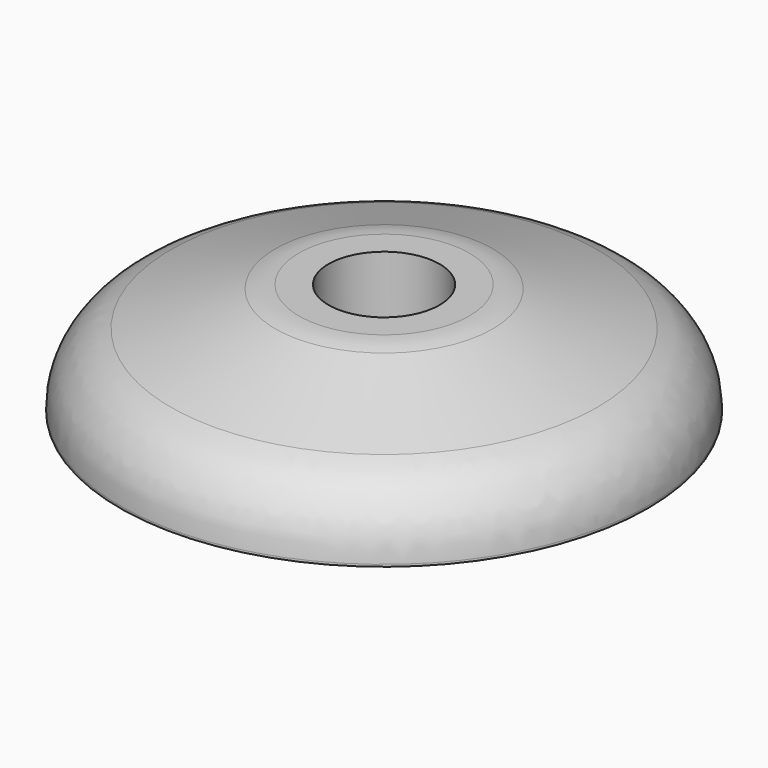
from build123d import *

# Parameters (mm, degrees)
F0_R     = 14.25
F1_DEPTH = 6
F2_R     = 3
F3_DEPTH = 25
F4_SIZE2 = 3
F4_SIZE  = 9
F5_R     = 4


with BuildPart() as f1:
    # F0 (on Top) → F1 (new body)
    with BuildSketch(Plane.XY):
        Circle(F0_R)
    extrude(amount=F1_DEPTH)

    # F2 (on face) → F3 (cut)
    with BuildSketch(Plane.XY.offset(6)):
        Circle(F2_R)
    extrude(amount=-F3_DEPTH, mode=Mode.SUBTRACT)

    # F4
    f4_edges = [f1.edges().sort_by_distance(p)[0] for p in [
        (-14.25, 0, 6),
    ]]
    f4_side = f1.faces().sort_by_distance((-13.846949, 0, 6))[0]
    chamfer(f4_edges, length=F4_SIZE, length2=F4_SIZE2, reference=f4_side)

    # F5
    f5_edges = [f1.edges().sort_by_distance(p)[0] for p in [
        (-5.25, 0, 6),
        (-14.25, 0, 3),
    ]]
    fillet(f5_edges, radius=F5_R)


solid = f1.part
